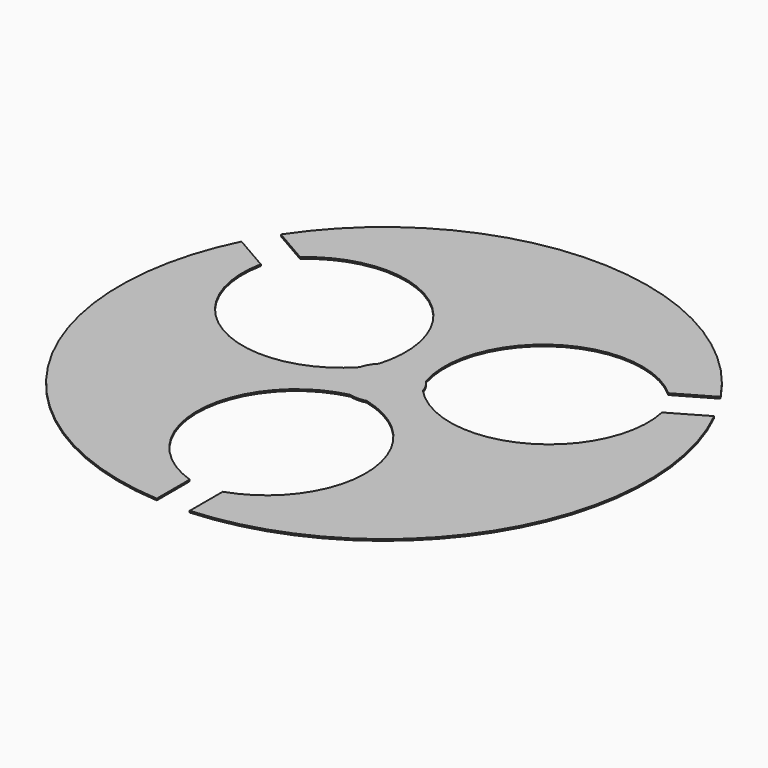
from build123d import *

# Parameters (mm, degrees)
F1_DEPTH = 1


with BuildPart() as f1:
    # F0 (on Top) → F1 (new body)
    with BuildSketch(Plane.XY):
        with BuildLine():
            ThreePointArc((-10, -134.687194), (-51.059593, -75.137453), (-5, -19.364917))
            ThreePointArc((-5, -19.364917), (0, -20), (5, -19.364917))
            ThreePointArc((5, -19.364917), (51.059593, -75.137453), (10, -134.687194))
            Line((10, -134.687194), (10, -159.687194))
            ThreePointArc((10, -159.687194), (138.564065, -80), (143.293167, 71.183343))
            Line((143.293167, 71.183343), (121.642532, 58.683343))
            ThreePointArc((121.642532, 58.683343), (90.60074, -6.650179), (19.27051, 5.352331))
            ThreePointArc((19.27051, 5.352331), (17.320508, 10), (14.27051, 14.012585))
            ThreePointArc((14.27051, 14.012585), (39.541146, 81.787631), (111.642532, 76.003851))
            Line((111.642532, 76.003851), (133.293167, 88.503851))
            ThreePointArc((133.293167, 88.503851), (0, 160), (-133.293167, 88.503851))
            Line((-133.293167, 88.503851), (-111.642532, 76.003851))
            ThreePointArc((-111.642532, 76.003851), (-39.541146, 81.787631), (-14.27051, 14.012585))
            ThreePointArc((-14.27051, 14.012585), (-17.320508, 10), (-19.27051, 5.352331))
            ThreePointArc((-19.27051, 5.352331), (-90.60074, -6.650179), (-121.642532, 58.683343))
            Line((-121.642532, 58.683343), (-143.293167, 71.183343))
            ThreePointArc((-143.293167, 71.183343), (-138.564065, -80), (-10, -159.687194))
            Line((-10, -159.687194), (-10, -134.687194))
        make_face()
    extrude(amount=F1_DEPTH)


solid = f1.part
